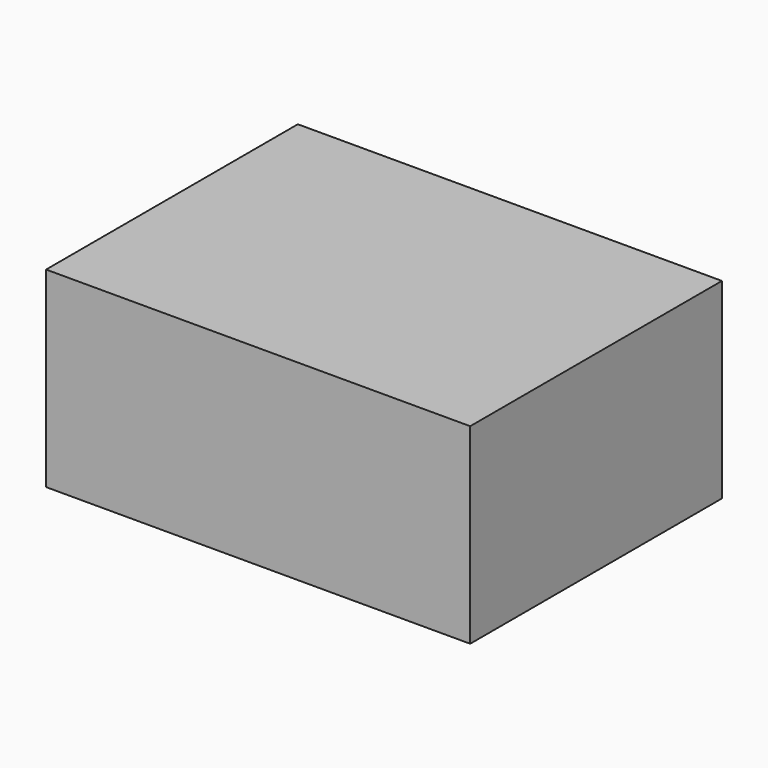
from build123d import *

# Parameters (mm, degrees)
F0_W     = 620
F0_H     = 460
F0_W_2   = 480
F0_H_2   = 45
F1_DEPTH = 280


with BuildPart() as f1:
    # F0 (on Top) → F1 (new body)
    with BuildSketch(Plane.XY):
        Rectangle(F0_W, F0_H)
        with Locations((0, -157.5)):
            Rectangle(F0_W_2, F0_H_2, mode=Mode.SUBTRACT)
        with Locations((0, -62.5)):
            Rectangle(F0_W_2, F0_H_2, mode=Mode.SUBTRACT)
        with Locations((0, 32.5)):
            Rectangle(F0_W_2, F0_H_2, mode=Mode.SUBTRACT)
        with Locations((0, 32.5)):
            Rectangle(F0_W_2, F0_H_2)
        with Locations((0, -62.5)):
            Rectangle(F0_W_2, F0_H_2)
        with Locations((0, -157.5)):
            Rectangle(F0_W_2, F0_H_2)
    extrude(amount=-F1_DEPTH)


solid = f1.part
